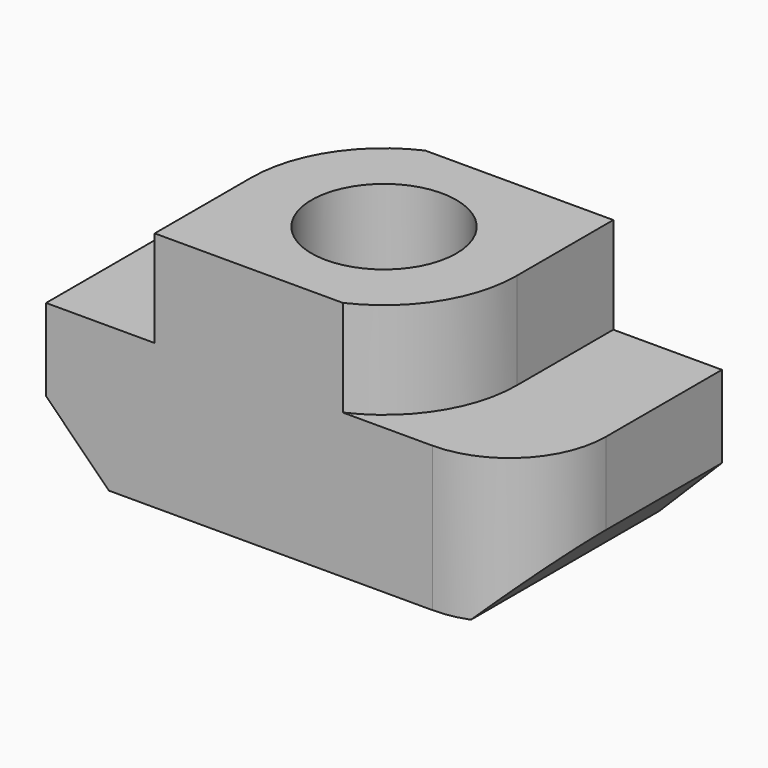
from build123d import *

# Parameters (mm, degrees)
F1_DEPTH      = 2.5
F1_DEPTH_BACK = 2.5
F3_R          = 1.5
F4_DEPTH      = 5.001
F6_DEPTH      = 2
F7_R          = 2


with BuildPart() as f1:
    # F0 (on Front) → F1 (new body, two sides)
    with BuildSketch(Plane.XZ) as f1_sk:
        Polygon((-3.7, 0), (0, 0), (3.7, 0), (5, 1.3), (5, 3), (2.75, 3), (2.75, 5), (0, 5), (-2.75, 5), (-2.75, 3), (-5, 3), (-5, 1.3), align=None)
    extrude(amount=F1_DEPTH)
    extrude(f1_sk.sketch, amount=-F1_DEPTH_BACK)

    # F3 (on face) → F4 (cut, through all)
    with BuildSketch(Plane.XY.offset(5)):
        Circle(F3_R)
    extrude(amount=-F4_DEPTH, mode=Mode.SUBTRACT)

    # F5 (on face) → F6 (cut, through all)
    with BuildSketch(Plane.XY.offset(5)):
        with BuildLine():
            Line((2.75, -2.5), (2.75, 0))
            ThreePointArc((2.75, 0), (2.314413618, -1.4852574204), (1.1456439237, -2.5))
            Line((1.1456439237, -2.5), (2.75, -2.5))
        make_face()
        with BuildLine():
            ThreePointArc((-2.75, 0), (-2.314413618, 1.4852574204), (-1.1456439237, 2.5))
            Line((-1.1456439237, 2.5), (-2.75, 2.5))
            Line((-2.75, 2.5), (-2.75, 0))
        make_face()
    extrude(amount=-F6_DEPTH, mode=Mode.SUBTRACT)

    # F7
    f7_edges = [f1.edges().sort_by_distance(p)[0] for p in [
        (5, -2.5, 2.15),
        (-5, 2.5, 2.15),
    ]]
    fillet(f7_edges, radius=F7_R)


solid = f1.part
